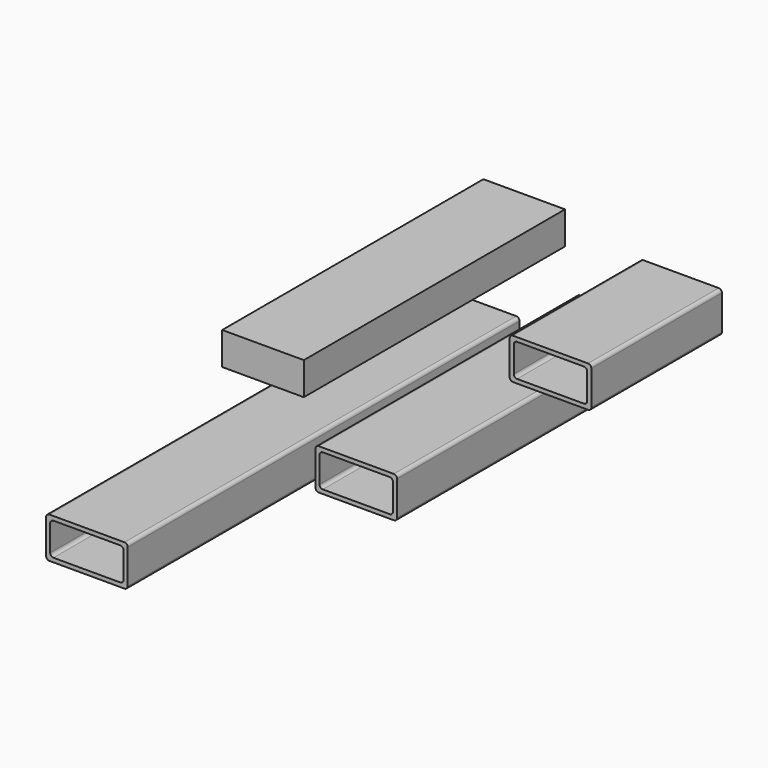
from build123d import *

# Parameters (mm, degrees)
F0_W     = 100
F0_H     = 400
F1_DEPTH = 40
F3_DEPTH = 600
F5_DEPTH = 400
F7_DEPTH = 200


with BuildPart() as f1:
    # F0 (on Top) → F1 (new body)
    with BuildSketch(Plane.XY):
        with Locations((-24.545455, -130.340915)):
            Rectangle(F0_W, F0_H)
    extrude(amount=F1_DEPTH)


with BuildPart() as f3:
    # F2 (on Front) → F3 (new body)
    with BuildSketch(Plane.XZ):
        with BuildLine():
            Line((21.429882, -48.118195), (-70.570118, -48.118195))
            ThreePointArc((-70.570118, -48.118195), (-73.398545, -49.289768), (-74.570118, -52.118195))
            Line((-74.570118, -52.118195), (-74.570118, -94.118195))
            ThreePointArc((-74.570118, -94.118195), (-73.398545, -96.946623), (-70.570118, -98.118195))
            Line((-70.570118, -98.118195), (21.429882, -98.118195))
            ThreePointArc((21.429882, -98.118195), (24.258309, -96.946623), (25.429882, -94.118195))
            Line((25.429882, -94.118195), (25.429882, -52.118195))
            ThreePointArc((25.429882, -52.118195), (24.258309, -49.289768), (21.429882, -48.118195))
        make_face()
        with BuildLine():
            ThreePointArc((-69.570118, -57.118195), (-68.398545, -54.289768), (-65.570118, -53.118195))
            Line((-65.570118, -53.118195), (16.429882, -53.118195))
            ThreePointArc((16.429882, -53.118195), (19.258309, -54.289768), (20.429882, -57.118195))
            Line((20.429882, -57.118195), (20.429882, -89.118195))
            ThreePointArc((20.429882, -89.118195), (19.258309, -91.946623), (16.429882, -93.118195))
            Line((16.429882, -93.118195), (-65.570118, -93.118195))
            ThreePointArc((-65.570118, -93.118195), (-68.398545, -91.946623), (-69.570118, -89.118195))
            Line((-69.570118, -89.118195), (-69.570118, -57.118195))
        make_face(mode=Mode.SUBTRACT)
    extrude(amount=F3_DEPTH)


with BuildPart() as f5:
    # F4 (on Front) → F5 (new body)
    with BuildSketch(Plane.XZ):
        with BuildLine():
            Line((191.467564, -0.414899), (99.467564, -0.414899))
            ThreePointArc((99.467564, -0.414899), (96.639137, -1.586472), (95.467564, -4.414899))
            Line((95.467564, -4.414899), (95.467564, -46.414899))
            ThreePointArc((95.467564, -46.414899), (96.639137, -49.243326), (99.467564, -50.414899))
            Line((99.467564, -50.414899), (191.467564, -50.414899))
            ThreePointArc((191.467564, -50.414899), (194.295992, -49.243326), (195.467564, -46.414899))
            Line((195.467564, -46.414899), (195.467564, -4.414899))
            ThreePointArc((195.467564, -4.414899), (194.295992, -1.586472), (191.467564, -0.414899))
        make_face()
        with BuildLine():
            ThreePointArc((100.467564, -9.414899), (101.639137, -6.586472), (104.467564, -5.414899))
            Line((104.467564, -5.414899), (186.467564, -5.414899))
            ThreePointArc((186.467564, -5.414899), (189.295992, -6.586472), (190.467564, -9.414899))
            Line((190.467564, -9.414899), (190.467564, -41.414899))
            ThreePointArc((190.467564, -41.414899), (189.295992, -44.243326), (186.467564, -45.414899))
            Line((186.467564, -45.414899), (104.467564, -45.414899))
            ThreePointArc((104.467564, -45.414899), (101.639137, -44.243326), (100.467564, -41.414899))
            Line((100.467564, -41.414899), (100.467564, -9.414899))
        make_face(mode=Mode.SUBTRACT)
    extrude(amount=F5_DEPTH)


with BuildPart() as f7:
    # F6 (on Front) → F7 (new body)
    with BuildSketch(Plane.XZ):
        with BuildLine():
            Line((269.379806, 62.786197), (177.379806, 62.786197))
            ThreePointArc((177.379806, 62.786197), (174.551379, 61.614624), (173.379806, 58.786197))
            Line((173.379806, 58.786197), (173.379806, 16.786197))
            ThreePointArc((173.379806, 16.786197), (174.551379, 13.95777), (177.379806, 12.786197))
            Line((177.379806, 12.786197), (269.379806, 12.786197))
            ThreePointArc((269.379806, 12.786197), (272.208233, 13.95777), (273.379806, 16.786197))
            Line((273.379806, 16.786197), (273.379806, 58.786197))
            ThreePointArc((273.379806, 58.786197), (272.208233, 61.614624), (269.379806, 62.786197))
        make_face()
        with BuildLine():
            ThreePointArc((178.379806, 53.786197), (179.551379, 56.614624), (182.379806, 57.786197))
            Line((182.379806, 57.786197), (264.379806, 57.786197))
            ThreePointArc((264.379806, 57.786197), (267.208233, 56.614624), (268.379806, 53.786197))
            Line((268.379806, 53.786197), (268.379806, 21.786197))
            ThreePointArc((268.379806, 21.786197), (267.208233, 18.95777), (264.379806, 17.786197))
            Line((264.379806, 17.786197), (182.379806, 17.786197))
            ThreePointArc((182.379806, 17.786197), (179.551379, 18.95777), (178.379806, 21.786197))
            Line((178.379806, 21.786197), (178.379806, 53.786197))
        make_face(mode=Mode.SUBTRACT)
    extrude(amount=F7_DEPTH)


solid = Compound([f1.part, f3.part, f5.part, f7.part])
